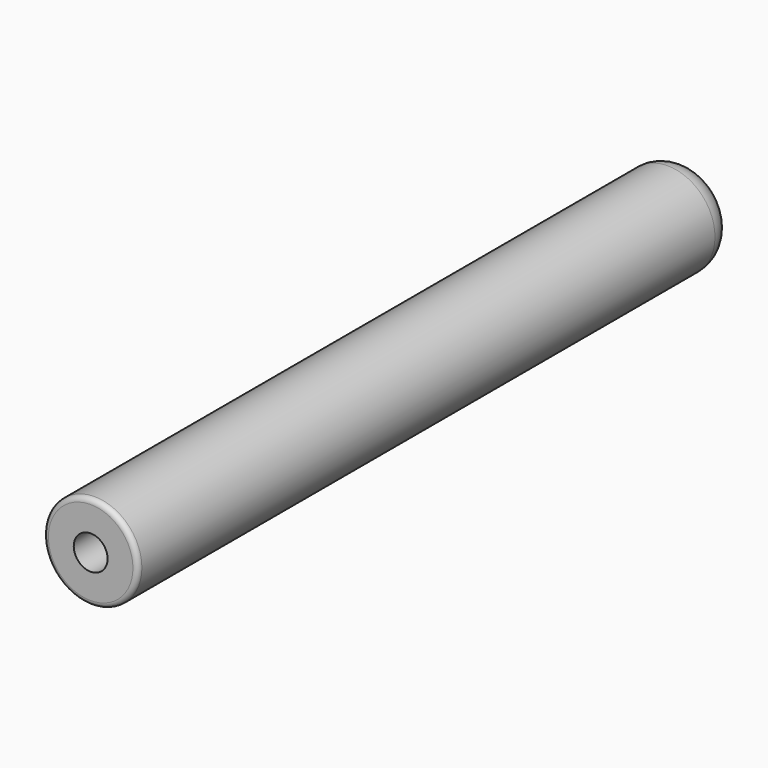
from build123d import *

# Parameters (mm, degrees)
F0_R     = 9.5
F1_DEPTH = 150
F3_D     = 6.8
F3_DEPTH = 18.25
F3_TIP   = 2.0429261047
F4_R     = 1
F5_R     = 5


with BuildPart() as f1:
    # F0 (on Front) → F1 (new body)
    with BuildSketch(Plane.XZ):
        Circle(F0_R)
    extrude(amount=F1_DEPTH)

    # F3
    with Locations(Plane.XZ.offset(150)):
        with Locations((0, 0)):
            Hole(F3_D / 2, depth=F3_DEPTH)
            with Locations((0, 0, -(F3_DEPTH + F3_TIP / 2))):  # 118° drill point
                Cone(0, F3_D / 2, F3_TIP, mode=Mode.SUBTRACT)

    # F4
    f4_edges = [f1.edges().sort_by_distance(p)[0] for p in [
        (-9.5, -150, 0),
    ]]
    fillet(f4_edges, radius=F4_R)

    # F5
    f5_edges = [f1.edges().sort_by_distance(p)[0] for p in [
        (9.5, -74.5, 0),
        (-9.5, -149, 0),
        (-9.5, 0, 0),
    ]]
    fillet(f5_edges, radius=F5_R)


solid = f1.part
